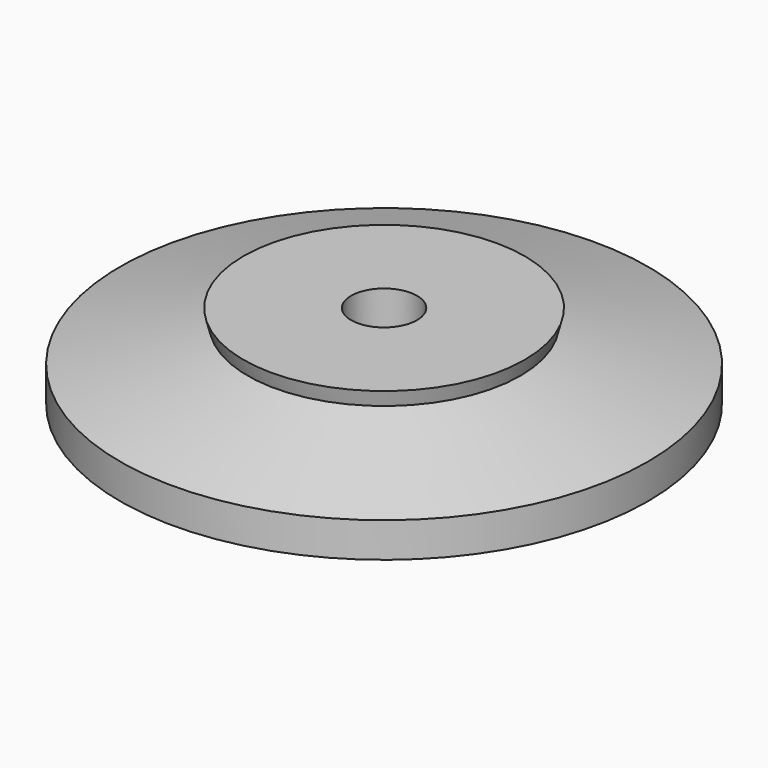
from build123d import *

# Parameters (mm, degrees)
F0_W   = 7
F0_H   = 1.6
F0_W_2 = 5
F4_D   = 5


with BuildPart() as f1:
    # F0 (on Front) → F1 (revolve)
    with BuildSketch(Plane.XZ):
        with Locations((8.5, 0.8)):
            Rectangle(F0_W, F0_H)
    revolve(axis=Axis((0, 0, 0.8), (0, 0, 1)))


with BuildPart() as f2:
    # F0 (on Front) → F2 (revolve)
    with BuildSketch(Plane.XZ):
        Polygon((0, 8), (0, 1.6), (5, 1.6), (12, 1.6), (12, 0), (14, 0), (20, 1.6076951546), (20, 4.2526985574), (10.3407417371, 6.8408890085), (6.014880625, 8), align=None)
        with Locations((2.5, 0.8)):
            Rectangle(F0_W_2, F0_H)
        Polygon((10.6513245912, 8), (6.014880625, 8), (10.3407417371, 6.8408890085), align=None)
    revolve(axis=Axis((0, 0, 4), (0, 0, 1)))

    # F4 (through all)
    with Locations(Plane.XY.offset(8)):
        with Locations((0, 0)):
            Hole(F4_D / 2)


solid = Compound([f1.part, f2.part])
